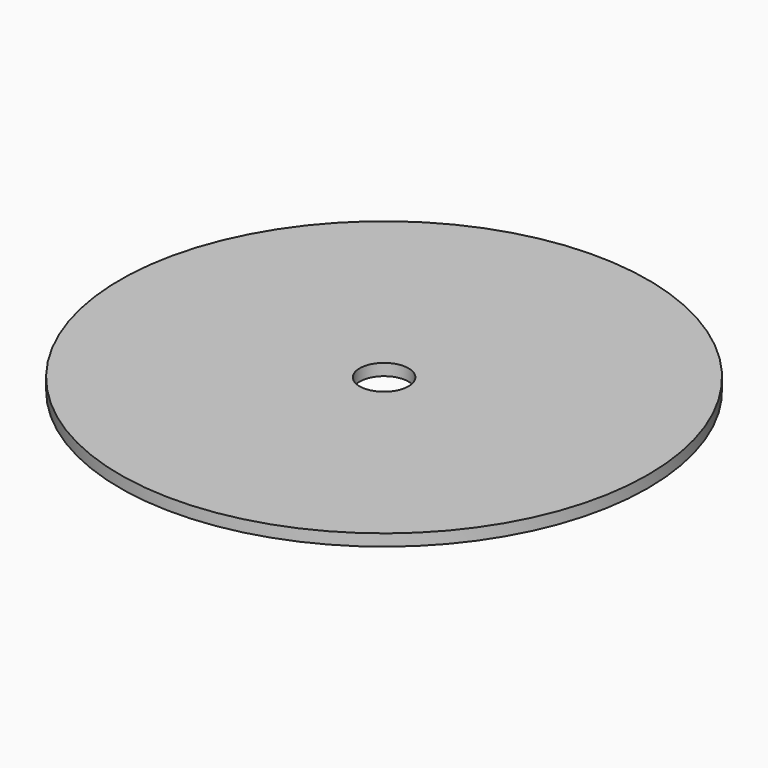
from build123d import *

# Parameters (mm, degrees)
SKETCH_R   = 67.5
SKETCH_R_2 = 6.25
PAD_DEPTH  = 3


with BuildPart() as part:
    # Sketch → Pad (new body)
    with BuildSketch(Plane.XY):
        Circle(SKETCH_R)
        Circle(SKETCH_R_2, mode=Mode.SUBTRACT)
    extrude(amount=PAD_DEPTH)


solid = part.part
